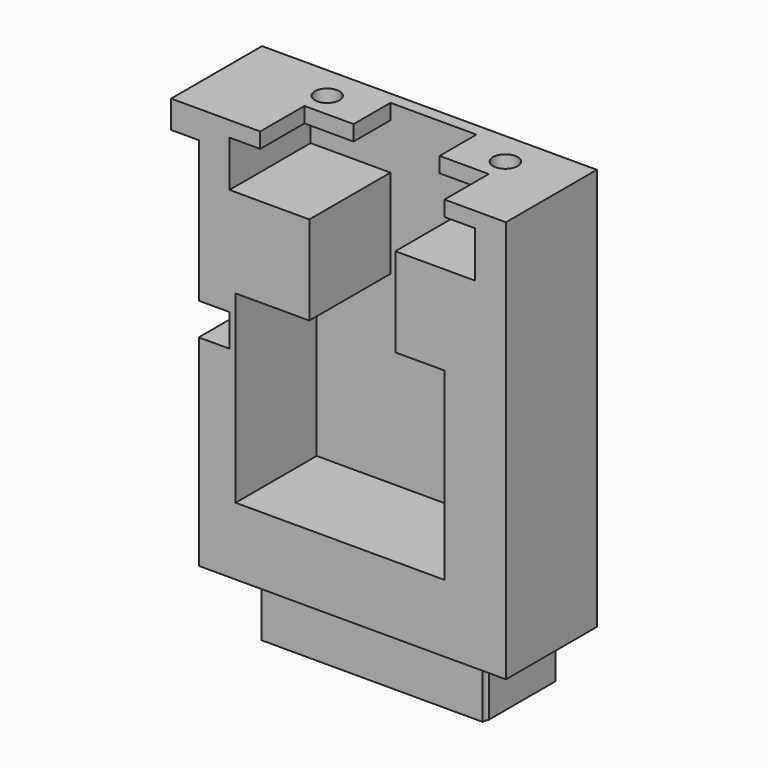
from build123d import *

# Parameters (mm, degrees)
F0_W      = 50
F0_H      = 18.5
F1_DEPTH  = 32.75
F2_R      = 2
F2_W      = 30
F2_H      = 9
F3_DEPTH  = 4
F5_DEPTH  = 10
F6_DEPTH  = 4
F7_W      = 14
F7_H      = 14.5
F7_W_2    = 13
F7_H_2    = 7.5
F7_H_3    = 2.5
F8_DEPTH  = 16.5
F9_W      = 18.5
F9_H      = 4.5
F10_DEPTH = 4.5
F9_H_2    = 5.25
F11_DEPTH = 5


with BuildPart() as f1:
    # F0 (on Top) → F1 (new body, symmetric)
    with BuildSketch(Plane.XY):
        with Locations((25, 0)):
            Rectangle(F0_W, F0_H)
    extrude(amount=F1_DEPTH, both=True)

    # F2 (on face) → F3 (cut)
    with BuildSketch(Plane.XY.offset(32.75)):
        with Locations((10.5, 3.75)):
            Circle(F2_R)
        with Locations((39.5, 3.75)):
            Circle(F2_R)
        with Locations((25, -4.75)):
            Rectangle(F2_W, F2_H)
    extrude(amount=-F3_DEPTH, mode=Mode.SUBTRACT)

    # F4 (on face) → F5 (join)
    with BuildSketch(Plane(origin=(0, 0, -32.75), x_dir=(1, 0, 0), z_dir=(0, 0, -1))):
        with BuildLine():
            Line((43, 5.25), (7, 5.25))
            ThreePointArc((7, 5.25), (6.9364916731, 4.75), (6.75, 4.2817541634))
            Line((6.75, 4.2817541634), (6.75, -9.25))
            Line((6.75, -9.25), (43.25, -9.25))
            Line((43.25, -9.25), (43.25, 4.2817541634))
            ThreePointArc((43.25, 4.2817541634), (43.0635083269, 4.75), (43, 5.25))
        make_face()
    extrude(amount=F5_DEPTH)

    # F4 (on face) → F6 (cut)
    with BuildSketch(Plane(origin=(0, 0, -32.75), x_dir=(1, 0, 0), z_dir=(0, 0, -1))):
        with BuildLine():
            Line((6.75, 5.25), (7, 5.25))
            ThreePointArc((7, 5.25), (3.0635083269, 5.75), (6.75, 4.2817541634))
            Line((6.75, 4.2817541634), (6.75, 5.25))
        make_face()
        with BuildLine():
            ThreePointArc((47, 5.25), (45, 7.25), (43, 5.25))
            Line((43, 5.25), (43.25, 5.25))
            Line((43.25, 5.25), (43.25, 4.2817541634))
            ThreePointArc((43.25, 4.2817541634), (45.5, 3.3135083269), (47, 5.25))
        make_face()
    extrude(amount=-F6_DEPTH, mode=Mode.SUBTRACT)

    # F7 (on face) → F8 (cut)
    with BuildSketch(Plane.XZ.offset(9.25)):
        Polygon((18, 8.25), (6, 8.25), (6, -21.75), (40, -21.75), (40, 8.25), (32, 8.25), align=None)
        with Locations((25, 15.5)):
            Rectangle(F7_W, F7_H)
        with Locations((11.5, 26.5)):
            Rectangle(F7_W_2, F7_H_2)
        with Locations((25, 26.5)):
            Rectangle(F7_W, F7_H_2)
        with Locations((38.5, 26.5)):
            Rectangle(F7_W_2, F7_H_2)
        with Locations((25, 31.5)):
            Rectangle(F7_W, F7_H_3)
    extrude(amount=-F8_DEPTH, mode=Mode.SUBTRACT)

    # F9 (on face) → F10 (join)
    with BuildSketch(Plane(origin=(0, 0, 0), x_dir=(0, -1, 0), z_dir=(-1, 0, 0))):
        with Locations((0, 30.5)):
            Rectangle(F9_W, F9_H)
    extrude(amount=F10_DEPTH)

    # F9 (on face) → F11 (cut)
    with BuildSketch(Plane(origin=(0, 0, 0), x_dir=(0, -1, 0), z_dir=(-1, 0, 0))):
        with Locations((0, 2.625)):
            Rectangle(F9_W, F9_H_2)
    extrude(amount=-F11_DEPTH, mode=Mode.SUBTRACT)


solid = f1.part
